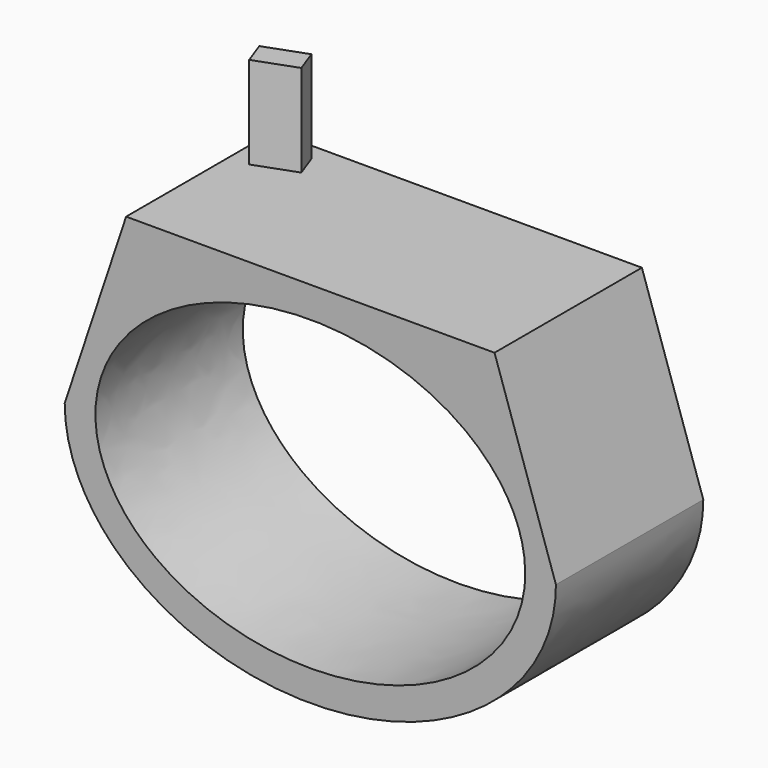
from build123d import *

# Parameters (mm, degrees)
F1_DEPTH = 30
F3_DEPTH = 15


with BuildPart() as f1:
    # F0 (on Front) → F1 (new body)
    with BuildSketch(Plane.XZ):
        with BuildLine():
            Line((-51.8599904329, 40.754596442), (-61.8599904329, 10.754596442))
            add(Edge.make_bspline(
                [(-61.8599904329, 10.754596442), (-61.8599904329, -19.245403558), (-21.8599904329, -19.245403558), (18.1400095671, -19.245403558), (18.1400095671, 10.754596442)],
                knots=[3.1415926536, 3.1415926536, 3.1415926536, 4.7123889804, 4.7123889804, 6.2831853072, 6.2831853072, 6.2831853072], degree=2, weights=[1, 0.7071067812, 1, 0.7071067812, 1]))
            Line((18.1400095671, 10.754596442), (8.1400095671, 40.754596442))
            Line((8.1400095671, 40.754596442), (-21.8599904329, 40.754596442))
            Line((-21.8599904329, 40.754596442), (-51.8599904329, 40.754596442))
        make_face()
        with BuildLine():
            add(Edge.make_bspline(
                [(13.1400095671, 10.754596442), (13.1400095671, 54.0558666312), (-39.3599904329, 32.4052315366), (-91.8599904329, 10.754596442), (-39.3599904329, -10.8960386526), (13.1400095671, -32.5466737472), (13.1400095671, 10.754596442)],
                knots=[0, 0, 0, 2.0943951024, 2.0943951024, 4.1887902048, 4.1887902048, 6.2831853072, 6.2831853072, 6.2831853072], degree=2, weights=[1, 0.5, 1, 0.5, 1, 0.5, 1]))
        make_face(mode=Mode.SUBTRACT)
    extrude(amount=F1_DEPTH)

    # F2 (on face) → F3 (join)
    with BuildSketch(Plane.XY.offset(40.754596442)):
        Polygon((-43.4027568458, -2.8526326708), (-49.9806051913, -5.2467736741), (-48.612524618, -9.0055441572), (-42.0346762725, -6.6114031539), align=None)
    extrude(amount=F3_DEPTH)


solid = f1.part
